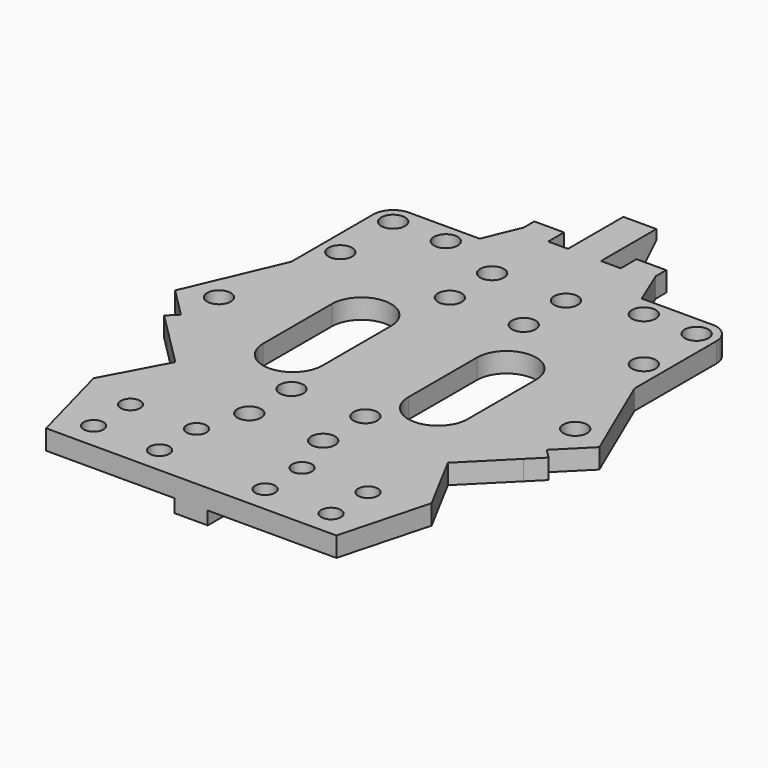
from build123d import *

# Parameters (mm, degrees)
SKETCH218_R     = 1.8
SKETCH218_R_2   = 1.5
PAD127054_DEPTH = 3
PAD127055_DEPTH = 2.5


with BuildPart() as base:
    # Sketch218 → Pad127054 (new body)
    with BuildSketch(Plane(origin=(50, 160, 11.5), x_dir=(1, 0, 0), z_dir=(0, 0, 1))):
        with BuildLine():
            Line((-40, 8.5), (-40, 10.5))
            Line((-40, 10.5), (-43, 10.5))
            Line((-43, 10.5), (-44.5, 10.5))
            Line((-44.5, 10.5), (-44.5, 7.5))
            Line((-44.5, 7.5), (-47.5, 7.5))
            Line((-47.5, 7.5), (-47.5, 10.5))
            Line((-47.5, 10.5), (-50, 10.5))
            Line((-50, -67), (-50, 10.5))
            Line((-28, -67), (-50, -67))
            Line((-24.376533, -53.477038), (-28, -67))
            Line((-29.344931, -44.194174), (-24.376533, -53.477038))
            Line((-22.98097, -37.830213), (-29.344931, -44.194174))
            Line((-22.98097, -37.830213), (-20.85965, -35.708892))
            Line((-20.85965, -35.708892), (-22.273864, -34.294679))
            Line((-17.847446, -29.868261), (-22.273864, -34.294679))
            Line((-24, -15.512303), (-17.847446, -29.868261))
            Line((-24, 0), (-24, -15.512303))
            ThreePointArc((-24, 0), (-24.87868, 2.12132), (-27, 3))
            Line((-37.721825, 3), (-27, 3))
            Line((-40, 8.5), (-37.721825, 3))
        make_face()
        with Locations((-27, 0)):
            Circle(SKETCH218_R, mode=Mode.SUBTRACT)
        with Locations((-27, -10)):
            Circle(SKETCH218_R, mode=Mode.SUBTRACT)
        with Locations((-23, -28)):
            Circle(SKETCH218_R, mode=Mode.SUBTRACT)
        with Locations((-35, 0)):
            Circle(SKETCH218_R, mode=Mode.SUBTRACT)
        with Locations((-32, -63)):
            Circle(SKETCH218_R_2, mode=Mode.SUBTRACT)
        with Locations((-42, -63)):
            Circle(SKETCH218_R_2, mode=Mode.SUBTRACT)
        with Locations((-32, -56)):
            Circle(SKETCH218_R_2, mode=Mode.SUBTRACT)
        with Locations((-42, -56)):
            Circle(SKETCH218_R_2, mode=Mode.SUBTRACT)
        with Locations((-44.4, -49)):
            Circle(SKETCH218_R, mode=Mode.SUBTRACT)
        with Locations((-44.4, -41)):
            Circle(SKETCH218_R, mode=Mode.SUBTRACT)
        with Locations((-44.4, -11)):
            Circle(SKETCH218_R, mode=Mode.SUBTRACT)
        with Locations((-44.4, -3)):
            Circle(SKETCH218_R, mode=Mode.SUBTRACT)
        with BuildLine():
            ThreePointArc((-43.5, -34), (-39, -38.5), (-34.5, -34))
            Line((-34.5, -34), (-34.5, -21))
            ThreePointArc((-34.5, -21), (-39, -16.5), (-43.5, -21))
            Line((-43.5, -34), (-43.5, -21))
        make_face(mode=Mode.SUBTRACT)
    extrude(amount=PAD127054_DEPTH)


with BuildPart() as base_mirror:
    # Part__Mirroring013: instance of Base
    add(base.part.mirror(Plane(origin=(0, 0, 0), x_dir=(0, -1, 0), z_dir=(1, 0, 0))))


with BuildPart() as mainfrontplate:
    # Sketch219 → Pad127055 (new body, symmetric)
    with BuildSketch(Plane(origin=(0, 0, 11.5), x_dir=(0, 1, 0), z_dir=(1, 0, 0))):
        Polygon((93, 0), (93, 5), (174.5, 5), (178, 1.5), (178, 0), align=None)
    extrude(amount=PAD127055_DEPTH, both=True)

    # Fusion004020030: union Base, Base (Mirror)
    add(base.part)
    add(base_mirror.part)


with BuildPart() as part_mirroring017:
    # Part__Mirroring017: instance of MainFrontPlate
    add(mainfrontplate.part.mirror(Plane(origin=(0, 0, 0), x_dir=(0, 1, 0), z_dir=(0, 0, 1))))


solid = part_mirroring017.part
